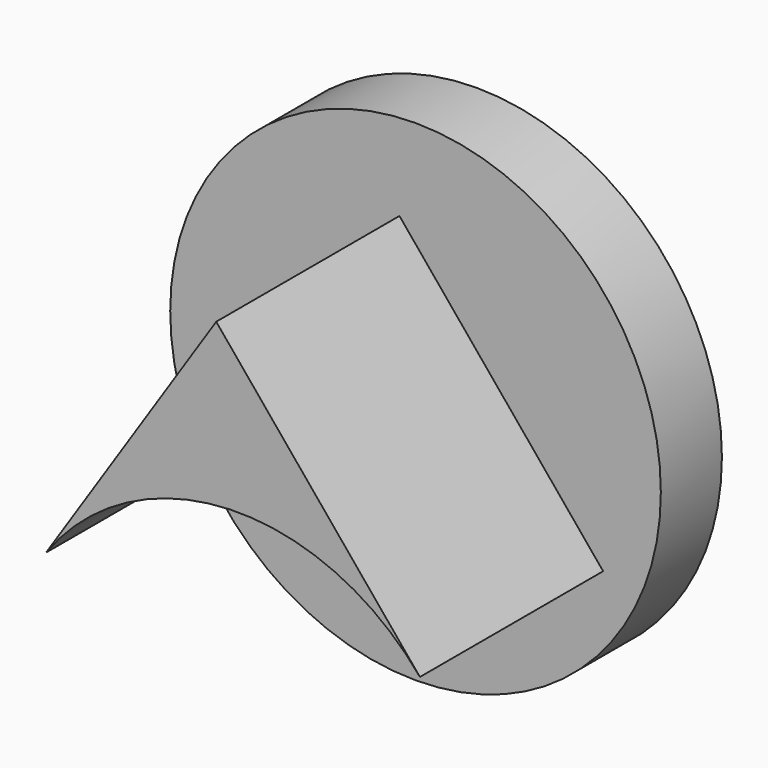
from build123d import *

# Parameters (mm, degrees)
F0_R     = 81.624409
F1_DEPTH = 25.4
F3_DEPTH = 76.2


with BuildPart() as f1:
    # F0 (on Front) → F1 (new body)
    with BuildSketch(Plane.XZ):
        with Locations((-32.545008, 13.374658)):
            Circle(F0_R)
    extrude(amount=F1_DEPTH)

    # F2 (on face) → F3 (join)
    with BuildSketch(Plane.XZ.offset(25.4)):
        with BuildLine():
            Line((-37.894875, 66.024758), (-94.514281, -20.018902))
            ThreePointArc((-94.514281, -20.018902), (-33.306834, 12.514138), (29.870085, -16.006503))
            Line((29.870085, -16.006503), (-37.894875, 66.024758))
        make_face()
    extrude(amount=F3_DEPTH)


solid = f1.part
